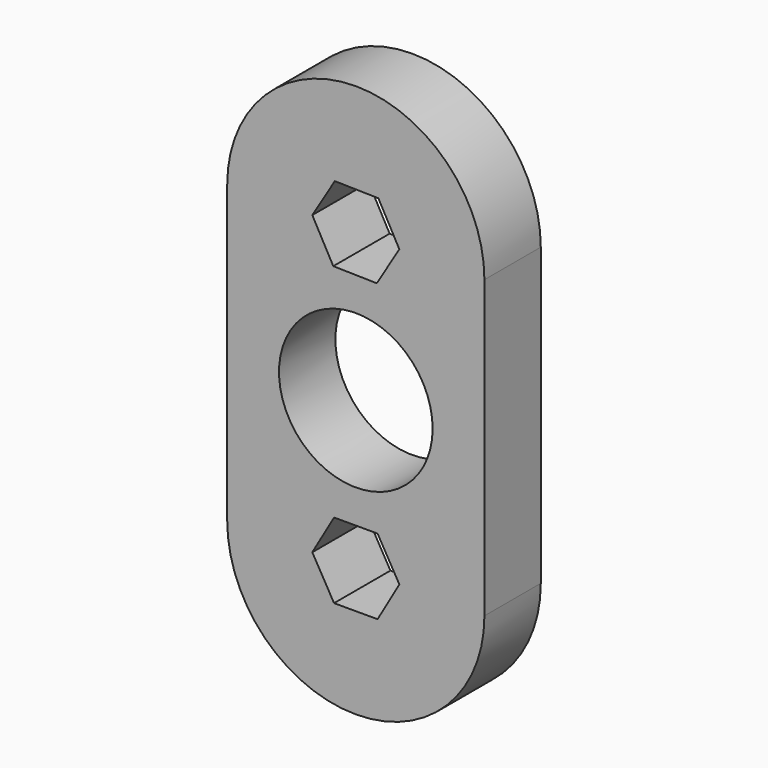
from build123d import *

# Parameters (mm, degrees)
F0_R     = 10.9
F1_DEPTH = 10


with BuildPart() as f1:
    # F0 (on Front) → F1 (new body)
    with BuildSketch(Plane.XZ):
        with BuildLine():
            Line((-18.25, 21), (-18.25, -21))
            ThreePointArc((-18.25, -21), (0, -39.25), (18.25, -21))
            Line((18.25, -21), (18.25, 21))
            ThreePointArc((18.25, 21), (0, 39.25), (-18.25, 21))
        make_face()
        Polygon((-6.177648, -21), (-3.088824, -15.65), (3.088824, -15.65), (6.177648, -21), (3.088824, -26.35), (-3.088824, -26.35), align=None, mode=Mode.SUBTRACT)
        Polygon((-2.979001, 26.411921), (3.19736, 26.285851), (6.176361, 20.87393), (2.979001, 15.588079), (-3.19736, 15.714149), (-6.176361, 21.12607), align=None, mode=Mode.SUBTRACT)
        Circle(F0_R, mode=Mode.SUBTRACT)
    extrude(amount=F1_DEPTH)


solid = f1.part
